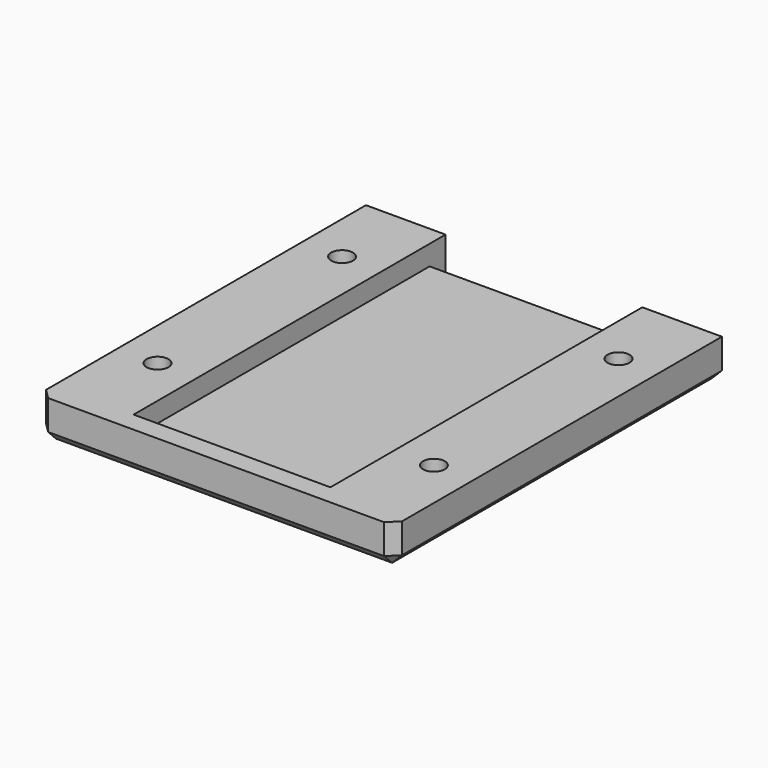
from build123d import *

# Parameters (mm, degrees)
SKETCH003_W     = 35.78
SKETCH003_H     = 41.185
PAD002_DEPTH    = 4
SKETCH004_W     = 19.78
SKETCH004_H     = 39.185
POCKET003_DEPTH = 2
SKETCH006_R     = 1.1
POCKET005_DEPTH = 4.001
SKETCH007_R     = 2.25
POCKET006_DEPTH = 2
CHAMFER001_SIZE = 1
SKETCH019_W     = 19.78
SKETCH019_H     = 2
POCKET015_DEPTH = 2


with BuildPart() as part:
    # Sketch003 (on ShapeBinder) → Pad002 (new body)
    with BuildSketch(Plane(origin=(0, 0, 0), x_dir=(1, 0, 0), z_dir=(0, 0, -1))):
        with Locations((76.18, 45.1675)):
            Rectangle(SKETCH003_W, SKETCH003_H)
    extrude(amount=PAD002_DEPTH)

    # Sketch004 (on ShapeBinder) → Pocket003 (cut)
    with BuildSketch(Plane(origin=(0, 0, 0), x_dir=(1, 0, 0), z_dir=(0, 0, -1))):
        with Locations((76.18, 44.1675)):
            Rectangle(SKETCH004_W, SKETCH004_H)
    extrude(amount=POCKET003_DEPTH, mode=Mode.SUBTRACT)

    # Sketch006 (on Face4 of Pocket003) → Pocket005 (cut, through all)
    with BuildSketch(Plane.XY):
        with Locations((62.29, -32.575)):
            Circle(SKETCH006_R)
        with Locations((90.07, -32.575)):
            Circle(SKETCH006_R)
        with Locations((90.07, -55.76)):
            Circle(SKETCH006_R)
        with Locations((62.29, -55.76)):
            Circle(SKETCH006_R)
    extrude(amount=-POCKET005_DEPTH, mode=Mode.SUBTRACT)

    # Sketch007 (on Face5 of Pocket005) → Pocket006 (cut)
    with BuildSketch(Plane(origin=(0, 0, -4), x_dir=(1, 0, 0), z_dir=(0, 0, -1))):
        with Locations((62.29, 55.76)):
            Circle(SKETCH007_R)
        with Locations((90.07, 55.76)):
            Circle(SKETCH007_R)
        with Locations((90.07, 32.575)):
            Circle(SKETCH007_R)
        with Locations((62.29, 32.575)):
            Circle(SKETCH007_R)
    extrude(amount=-POCKET006_DEPTH, mode=Mode.SUBTRACT)

    # Chamfer001
    chamfer001_edges = [part.edges().sort_by_distance(p)[0] for p in [
        (76.18, -65.76, -4),
        (94.07, -45.1675, -4),
        (58.29, -45.1675, -4),
        (58.29, -65.76, -2),
        (94.07, -65.76, -2),
    ]]
    chamfer(chamfer001_edges, length=CHAMFER001_SIZE)

    # Sketch019 (on Face7 of Chamfer001) → Pocket015 (cut)
    with BuildSketch(Plane(origin=(0, -24.575, 0), x_dir=(-1, 0, 0), z_dir=(0, 1, 0))):
        with Locations((-76.18, -3)):
            Rectangle(SKETCH019_W, SKETCH019_H)
    extrude(amount=-POCKET015_DEPTH, mode=Mode.SUBTRACT)


solid = part.part
